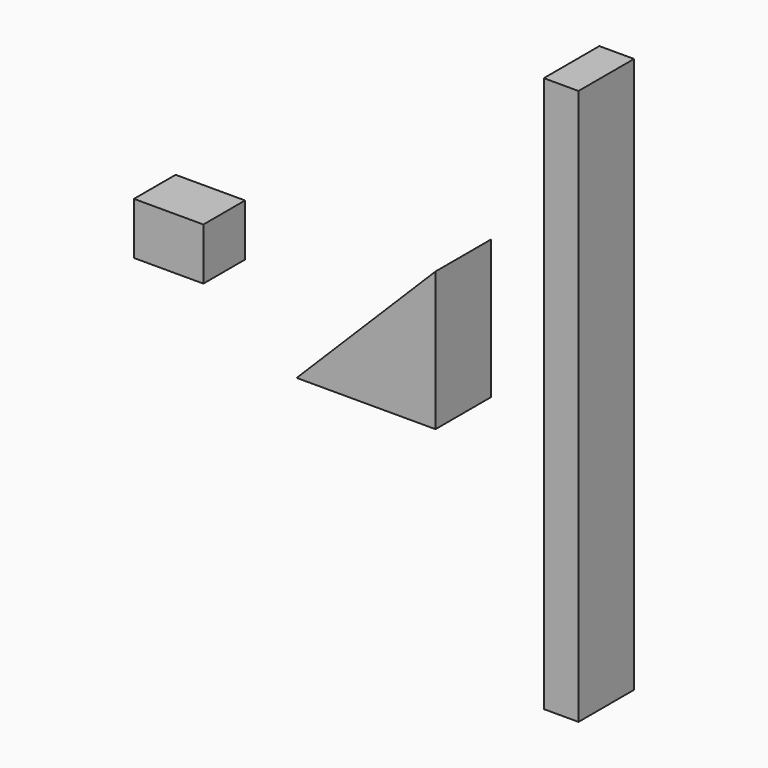
from build123d import *

# Parameters (mm, degrees)
F0_W     = 12.7
F0_H     = 203.2
F1_DEPTH = 25.4
F3_DEPTH = 25.4
F4_W     = 25.4
F4_H     = 19.05
F5_DEPTH = 19.05


with BuildPart() as f1:
    # F0 (on Front) → F1 (new body)
    with BuildSketch(Plane.XZ):
        Rectangle(F0_W, F0_H)
    extrude(amount=F1_DEPTH)


with BuildPart() as f3:
    # F2 (on Front) → F3 (new body)
    with BuildSketch(Plane.XZ):
        Polygon((-45.960346, 26.460437), (-96.760346, -24.339563), (-45.960346, -24.339563), align=None)
    extrude(amount=F3_DEPTH)


with BuildPart() as f5:
    # F4 (on Front) → F5 (new body)
    with BuildSketch(Plane.XZ):
        with Locations((-148.66014, 0.212088)):
            Rectangle(F4_W, F4_H)
    extrude(amount=F5_DEPTH)


solid = Compound([f1.part, f3.part, f5.part])
